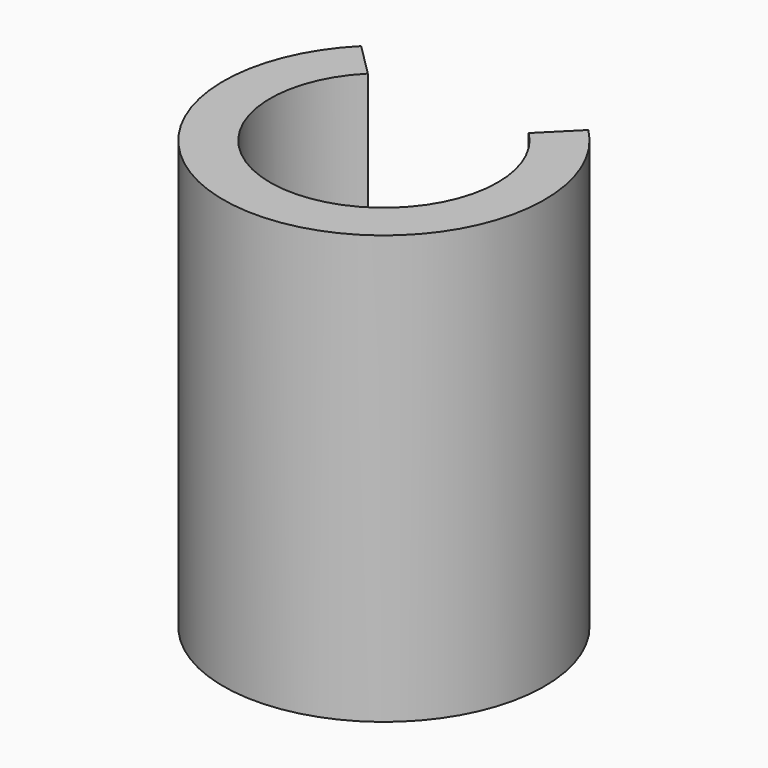
from build123d import *

# Parameters (mm, degrees)
F1_DEPTH = 50.8


with BuildPart() as f1:
    # F0 (on Top) → F1 (new body)
    with BuildSketch(Plane.XY):
        with BuildLine():
            ThreePointArc((9.541522, 9.541522), (12.466599, 5.163835), (13.49375, 0))
            ThreePointArc((13.49375, 0), (-5.163835, -12.466599), (-9.541522, 9.541522))
            Line((-9.541522, 9.541522), (-13.470384, 13.470384))
            ThreePointArc((-13.470384, 13.470384), (0, -19.05), (13.470384, 13.470384))
            Line((13.470384, 13.470384), (9.541522, 9.541522))
        make_face()
    extrude(amount=F1_DEPTH)


solid = f1.part
